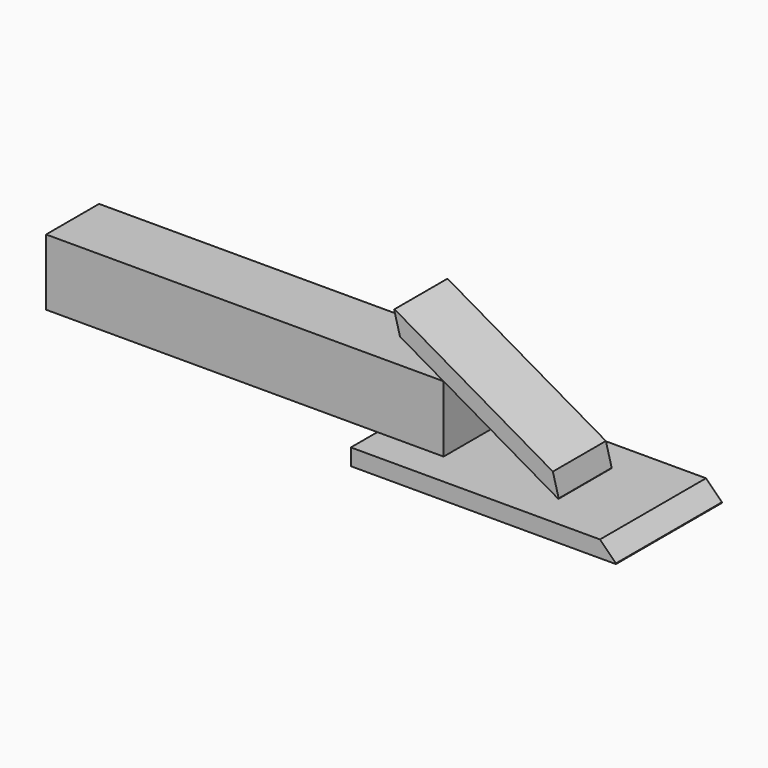
from build123d import *

# Parameters (mm, degrees)
BOX002_W               = 76.2
BOX002_H               = 25.4
BOX002_DEPTH           = 6.35
BOX002_PLACEMENT_ANGLE = 30
CHAMFER001_SIZE        = 6.1
BOX001_W               = 101.6
BOX001_H               = 50.8
BOX001_DEPTH           = 6.35
CHAMFER_SIZE           = 6.1
BOX_W                  = 152.4
BOX_H                  = 25.4
BOX_DEPTH              = 25.4


with BuildPart() as breaker_bar:
    # Box002 → Box002 (new body)
    with BuildSketch(Plane.XY):
        with Locations((38.1, 12.7)):
            Rectangle(BOX002_W, BOX002_H)
    extrude(amount=BOX002_DEPTH)


with BuildPart() as breaker_bar_1:
    # Box002 placement: moved
    add(breaker_bar.part.moved(Location((130.389586, -0.875268, 38.10798))).rotate(Axis((130.389586, -0.875268, 38.10798), (0, 1, 0)), BOX002_PLACEMENT_ANGLE))

    # Chamfer001
    chamfer001_edges = [breaker_bar_1.edges().sort_by_distance(p)[0] for p in [
        (130.389586, 11.824732, 38.10798),
        (199.555722, 11.824732, 5.507241),
    ]]
    chamfer(chamfer001_edges, length=CHAMFER001_SIZE)


with BuildPart() as breaker_bar_2:
    # Chamfer001 placement: moved
    add(breaker_bar_1.part.moved(Location((0, 0.875268, 0))))


with BuildPart() as knife:
    # Box001 → Box001 (new body)
    with BuildSketch(Plane(origin=(127, -12.7, -6.35), x_dir=(1, 0, 0), z_dir=(0, 0, 1))):
        with Locations((50.8, 25.4)):
            Rectangle(BOX001_W, BOX001_H)
    extrude(amount=BOX001_DEPTH)

    # Chamfer
    chamfer_edges = [knife.edges().sort_by_distance(p)[0] for p in [
        (228.6, 12.7, 0),
    ]]
    chamfer(chamfer_edges, length=CHAMFER_SIZE)


with BuildPart() as tooth_bar:
    # Box → Box (new body)
    with BuildSketch(Plane.XY):
        with Locations((76.2, 12.7)):
            Rectangle(BOX_W, BOX_H)
    extrude(amount=BOX_DEPTH)

    # Fusion: union Breaker bar, Knife
    add(breaker_bar_2.part)
    add(knife.part)


solid = tooth_bar.part
